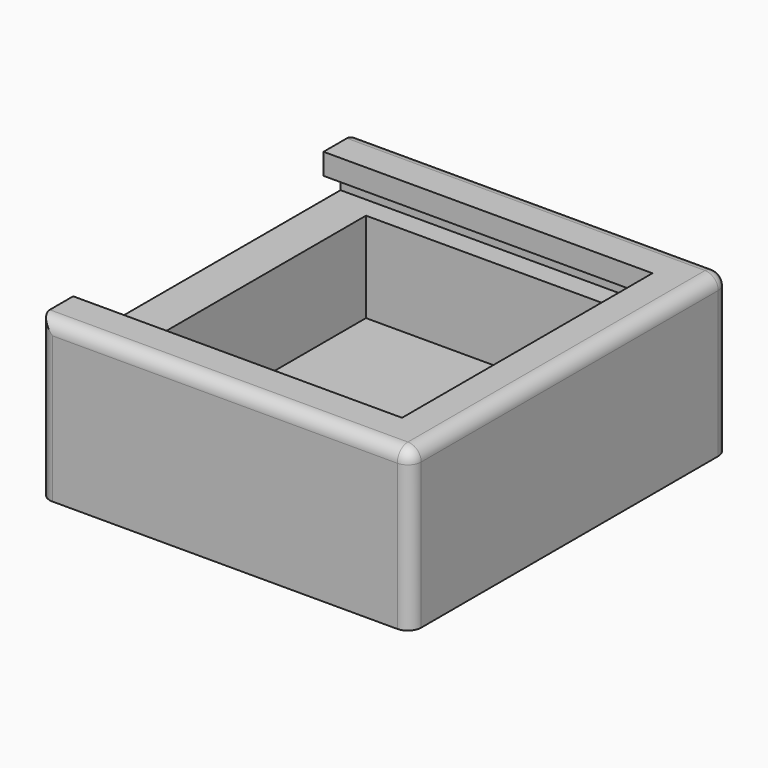
from build123d import *

# Parameters (mm, degrees)
F0_W     = 28
F0_H     = 12
F1_DEPTH = 30
F2_W     = 21.6
F2_H     = 23.6
F3_DEPTH = 10
F5_DEPTH = 24.8
F6_R     = 1


with BuildPart() as f1:
    # F0 (on Front) → F1 (new body)
    with BuildSketch(Plane.XZ):
        with Locations((14, 6)):
            Rectangle(F0_W, F0_H)
    extrude(amount=F1_DEPTH)

    # F2 (on face) → F3 (cut)
    with BuildSketch(Plane.XY.offset(12)):
        with Locations((14, -15)):
            Rectangle(F2_W, F2_H)
        with Locations((14, -15)):
            Rectangle(F2_W, F2_H)
    extrude(amount=-F3_DEPTH, mode=Mode.SUBTRACT)

    # F4 (on face) → F5 (cut, through all)
    with BuildSketch(Plane(origin=(0, 0, 0), x_dir=(0, -1, 0), z_dir=(-1, 0, 0))):
        Polygon((3.2, 10.4), (1.6, 10.4), (1.6, 8.8), (3.2, 8.8), (15, 8.8), (26.8, 8.8), (28.4, 8.8), (28.4, 10.4), (26.8, 10.4), (26.8, 12), (3.2, 12), align=None)
    extrude(amount=-F5_DEPTH, mode=Mode.SUBTRACT)

    # F6
    f6_edges = [f1.edges().sort_by_distance(p)[0] for p in [
        (0, 0, 6),
        (14, 0, 12),
        (0, -30, 6),
        (14, -30, 12),
        (28, 0, 6),
        (28, -30, 6),
        (28, -15, 12),
    ]]
    fillet(f6_edges, radius=F6_R)


solid = f1.part
